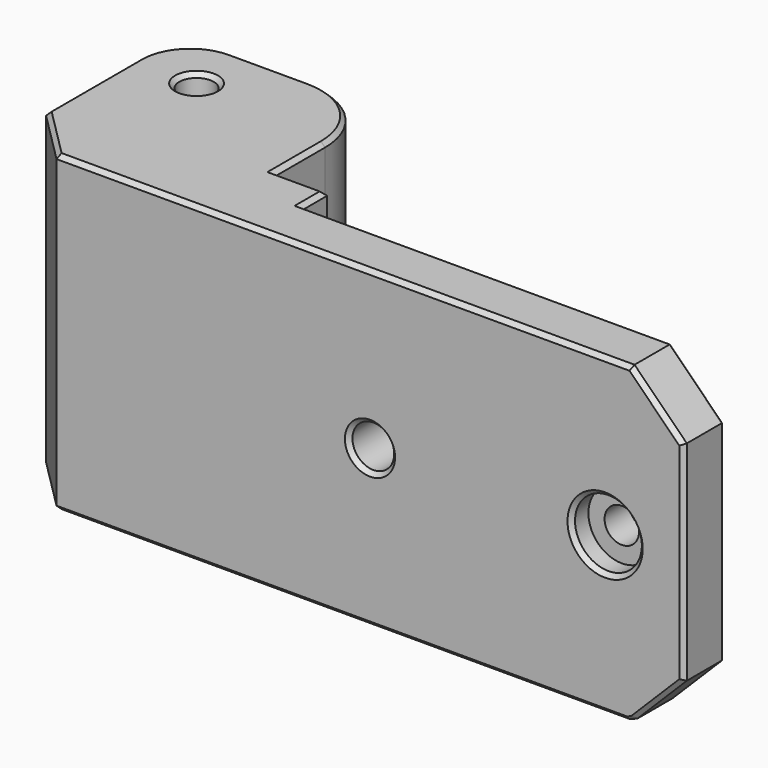
from build123d import *

# Parameters (mm, degrees)
CYLINDER008_R      = 1.65
CYLINDER008_DEPTH  = 10
CYLINDER009_R      = 3.2
CYLINDER009_DEPTH  = 10
CYLINDER007_R      = 2
CYLINDER007_DEPTH  = 10
CYLINDER006_R      = 1.65
CYLINDER006_DEPTH  = 50
BOX014_W           = 5
BOX014_H           = 3
BOX014_DEPTH       = 30
BOX012_W           = 19.5
BOX012_H           = 21
BOX012_DEPTH       = 30
BOX011_W           = 59
BOX011_H           = 5
BOX011_DEPTH       = 30
FILLET001_R        = 5
FILLET002_R        = 7
CHAMFER006004_SIZE = 5
CHAMFER006005_SIZE = 5
CHAMFER006006_SIZE = 0.4


with BuildPart() as cylinder008:
    # Cylinder008 → Cylinder008 (new body)
    with BuildSketch(Plane(origin=(37.5, 0, 23.5), x_dir=(1, 0, 0), z_dir=(0, -1, 0))):
        Circle(CYLINDER008_R)
    extrude(amount=CYLINDER008_DEPTH)


with BuildPart() as fusion004:
    # Cylinder009 → Cylinder009 (new body)
    with BuildSketch(Plane(origin=(37.5, -7, 23.5), x_dir=(1, 0, 0), z_dir=(0, -1, 0))):
        Circle(CYLINDER009_R)
    extrude(amount=CYLINDER009_DEPTH)

    # Fusion004: union Cylinder008
    add(cylinder008.part)


with BuildPart() as cylinder007:
    # Cylinder007 → Cylinder007 (new body)
    with BuildSketch(Plane(origin=(15, 0, 23.5), x_dir=(1, 0, 0), z_dir=(0, -1, 0))):
        Circle(CYLINDER007_R)
    extrude(amount=CYLINDER007_DEPTH)


with BuildPart() as cylinder006:
    # Cylinder006 → Cylinder006 (new body)
    with BuildSketch(Plane(origin=(-14, 6.5, -4), x_dir=(1, 0, 0), z_dir=(0, 0, 1))):
        Circle(CYLINDER006_R)
    extrude(amount=CYLINDER006_DEPTH)


with BuildPart() as cube013:
    # Box014 → Box014 (new body)
    with BuildSketch(Plane(origin=(-0.5, -4, 8.5), x_dir=(1, 0, 0), z_dir=(0, 0, 1))):
        with Locations((2.5, 1.5)):
            Rectangle(BOX014_W, BOX014_H)
    extrude(amount=BOX014_DEPTH)


with BuildPart() as cube012:
    # Box012 → Box012 (new body)
    with BuildSketch(Plane(origin=(-20, -9, 8.5), x_dir=(1, 0, 0), z_dir=(0, 0, 1))):
        with Locations((9.75, 10.5)):
            Rectangle(BOX012_W, BOX012_H)
    extrude(amount=BOX012_DEPTH)


with BuildPart() as chamfer006006:
    # Box011 → Box011 (new body)
    with BuildSketch(Plane(origin=(-14, -9, 8.5), x_dir=(1, 0, 0), z_dir=(0, 0, 1))):
        with Locations((29.5, 2.5)):
            Rectangle(BOX011_W, BOX011_H)
    extrude(amount=BOX011_DEPTH)

    # Fusion003: union Cube013, Cube012
    add(cube013.part)
    add(cube012.part)

    # Cut010011008009003016026008003006: cut Cylinder006
    add(cylinder006.part, mode=Mode.SUBTRACT)

    # Fillet001
    fillet001_edges = [chamfer006006.edges().sort_by_distance(p)[0] for p in [
        (-20, 12, 23.5),
    ]]
    fillet(fillet001_edges, radius=FILLET001_R)

    # Fillet002
    fillet002_edges = [chamfer006006.edges().sort_by_distance(p)[0] for p in [
        (-0.5, 12, 23.5),
    ]]
    fillet(fillet002_edges, radius=FILLET002_R)

    # Chamfer006004
    chamfer006004_edges = [chamfer006006.edges().sort_by_distance(p)[0] for p in [
        (-20, -9, 23.5),
    ]]
    chamfer(chamfer006004_edges, length=CHAMFER006004_SIZE)

    # Chamfer006005
    chamfer006005_edges = [chamfer006006.edges().sort_by_distance(p)[0] for p in [
        (45, -6.5, 8.5),
        (45, -6.5, 38.5),
    ]]
    chamfer(chamfer006005_edges, length=CHAMFER006005_SIZE)

    # Cut010011008009003016026008003007: cut Cylinder007
    add(cylinder007.part, mode=Mode.SUBTRACT)

    # Cut010011008009003016026008003008: cut Fusion004
    add(fusion004.part, mode=Mode.SUBTRACT)

    # Chamfer006006
    chamfer006006_edges = [chamfer006006.edges().sort_by_distance(p)[0] for p in [
        (34.3, -9, 23.5),
        (22.25, -4, 8.5),
        (42.5, -4, 11),
        (45, -4, 23.5),
        (22.25, -4, 38.5),
        (42.5, -4, 36),
        (42.5, -9, 11),
        (40, -6.5, 8.5),
        (4.5, -2.5, 38.5),
        (4.5, -2.5, 8.5),
        (45, -9, 23.5),
        (42.5, -9, 36),
        (13, -9, 23.5),
        (2, -1, 8.5),
        (2, -1, 38.5),
        (-0.5, 2, 38.5),
        (-0.5, 2, 8.5),
        (-2.550253, 9.949747, 8.5),
        (-2.550253, 9.949747, 38.5),
        (-11.25, 12, 8.5),
        (-11.25, 12, 38.5),
        (-18.535534, 10.535534, 8.5),
        (-18.535534, 10.535534, 38.5),
        (-20, 1.5, 38.5),
        (-20, 1.5, 8.5),
        (-17.5, -6.5, 8.5),
        (-17.5, -6.5, 38.5),
        (12.5, -9, 8.5),
        (-15.65, 6.5, 8.5),
        (-15.65, 6.5, 38.5),
        (12.5, -9, 38.5),
    ]]
    chamfer(chamfer006006_edges, length=CHAMFER006006_SIZE)


solid = chamfer006006.part
